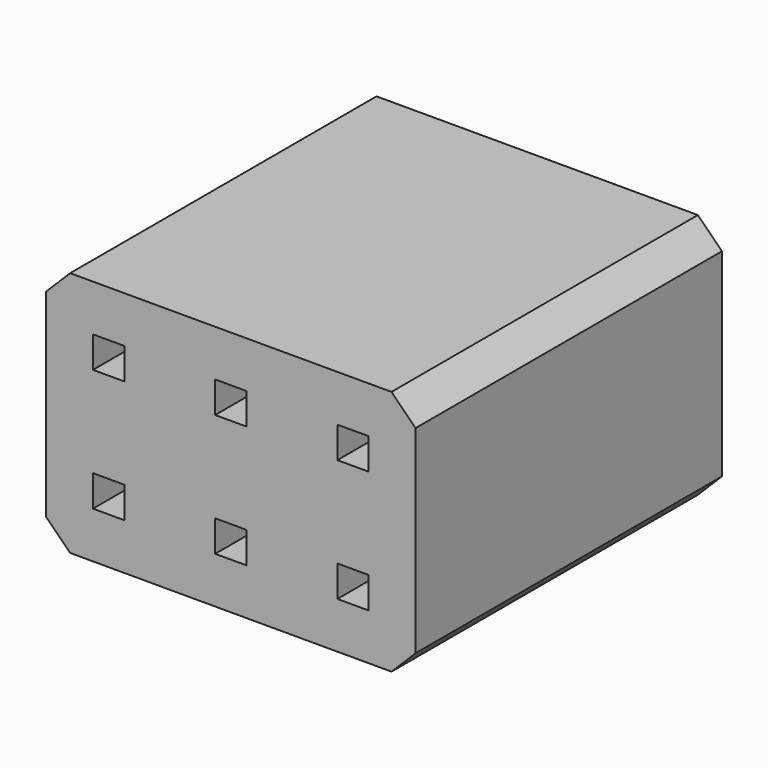
from build123d import *

# Parameters (mm, degrees)
F0_W     = 7.68
F0_H     = 5.12
F0_W_2   = 0.65
F0_H_2   = 0.65
F1_DEPTH = 7.96
F2_DEPTH = 7
F3_SIZE  = 0.5


with BuildPart() as f1:
    # F0 (on Front) → F1 (new body)
    with BuildSketch(Plane.XZ):
        Rectangle(F0_W, F0_H)
        with Locations((-2.54, -1.27)):
            Rectangle(F0_W_2, F0_H_2, mode=Mode.SUBTRACT)
        with Locations((0, -1.27)):
            Rectangle(F0_W_2, F0_H_2, mode=Mode.SUBTRACT)
        with Locations((2.54, -1.27)):
            Rectangle(F0_W_2, F0_H_2, mode=Mode.SUBTRACT)
        with Locations((-2.54, 1.27)):
            Rectangle(F0_W_2, F0_H_2, mode=Mode.SUBTRACT)
        with Locations((0, 1.27)):
            Rectangle(F0_W_2, F0_H_2, mode=Mode.SUBTRACT)
        with Locations((2.54, 1.27)):
            Rectangle(F0_W_2, F0_H_2, mode=Mode.SUBTRACT)
        with Locations((-2.54, 1.27)):
            Rectangle(F0_W_2, F0_H_2)
        with Locations((0, 1.27)):
            Rectangle(F0_W_2, F0_H_2)
        with Locations((2.54, 1.27)):
            Rectangle(F0_W_2, F0_H_2)
        with Locations((2.54, -1.27)):
            Rectangle(F0_W_2, F0_H_2)
        with Locations((0, -1.27)):
            Rectangle(F0_W_2, F0_H_2)
        with Locations((-2.54, -1.27)):
            Rectangle(F0_W_2, F0_H_2)
    extrude(amount=-F1_DEPTH)

    # F0 (on Front) → F2 (cut)
    with BuildSketch(Plane.XZ):
        with Locations((-2.54, 1.27)):
            Rectangle(F0_W_2, F0_H_2)
        with Locations((0, 1.27)):
            Rectangle(F0_W_2, F0_H_2)
        with Locations((2.54, 1.27)):
            Rectangle(F0_W_2, F0_H_2)
        with Locations((2.54, -1.27)):
            Rectangle(F0_W_2, F0_H_2)
        with Locations((0, -1.27)):
            Rectangle(F0_W_2, F0_H_2)
        with Locations((-2.54, -1.27)):
            Rectangle(F0_W_2, F0_H_2)
    extrude(amount=-F2_DEPTH, mode=Mode.SUBTRACT)

    # F3
    f3_edges = [f1.edges().sort_by_distance(p)[0] for p in [
        (3.84, 3.98, 2.56),
        (-3.84, 3.98, 2.56),
        (3.84, 3.98, -2.56),
        (-3.84, 3.98, -2.56),
    ]]
    chamfer(f3_edges, length=F3_SIZE)


solid = f1.part
